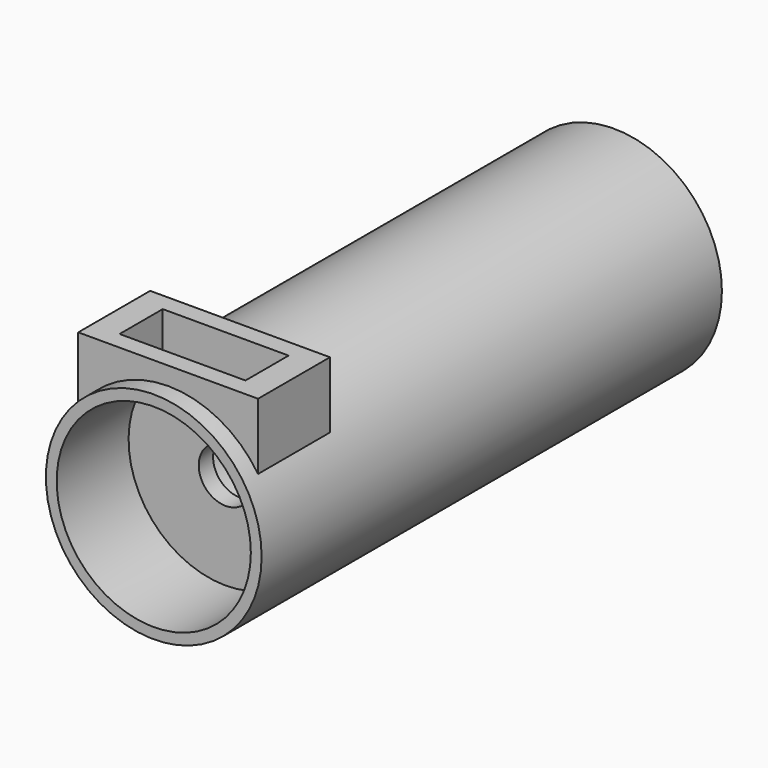
from build123d import *

# Parameters (mm, degrees)
F0_R          = 30
F0_R_2        = 27
F1_DEPTH      = 135
F1_DEPTH_BACK = 25
F0_R_3        = 14.7
F2_DEPTH      = 25
F0_R_4        = 7.5
F3_DEPTH      = 5
F5_DEPTH      = 20
F5_DEPTH_BACK = 5
F7_DEPTH      = 20


with BuildPart() as f1:
    # F0 (on Front) → F1 (new body, two sides)
    with BuildSketch(Plane.XZ) as f1_sk:
        Circle(F0_R)
        Circle(F0_R_2, mode=Mode.SUBTRACT)
    extrude(amount=-F1_DEPTH)
    extrude(f1_sk.sketch, amount=F1_DEPTH_BACK)

    # F0 (on Front) → F2 (join)
    with BuildSketch(Plane.XZ):
        Circle(F0_R_2)
        Circle(F0_R_3, mode=Mode.SUBTRACT)
    extrude(amount=-F2_DEPTH)

    # F0 (on Front) → F3 (join)
    with BuildSketch(Plane.XZ):
        Circle(F0_R_3)
        Circle(F0_R_4, mode=Mode.SUBTRACT)
    extrude(amount=-F3_DEPTH)

    # F4 (on Front) → F5 (join, two sides)
    with BuildSketch(Plane.XZ) as f5_sk:
        with BuildLine():
            Line((-25, 35), (-25, 16.5831239518))
            ThreePointArc((-25, 16.5831239518), (0, 30), (25, 16.5831239518))
            Line((25, 16.5831239518), (25, 35))
            Line((25, 35), (-25, 35))
        make_face()
    extrude(amount=F5_DEPTH)
    extrude(f5_sk.sketch, amount=-F5_DEPTH_BACK)

    # F6 (on face) → F7 (cut)
    with BuildSketch(Plane.XY.offset(35)):
        Polygon((0, 0), (-17.5, 0), (-17.5, -15), (17.5, -15), (17.5, 0), align=None)
    extrude(amount=-F7_DEPTH, mode=Mode.SUBTRACT)


solid = f1.part
